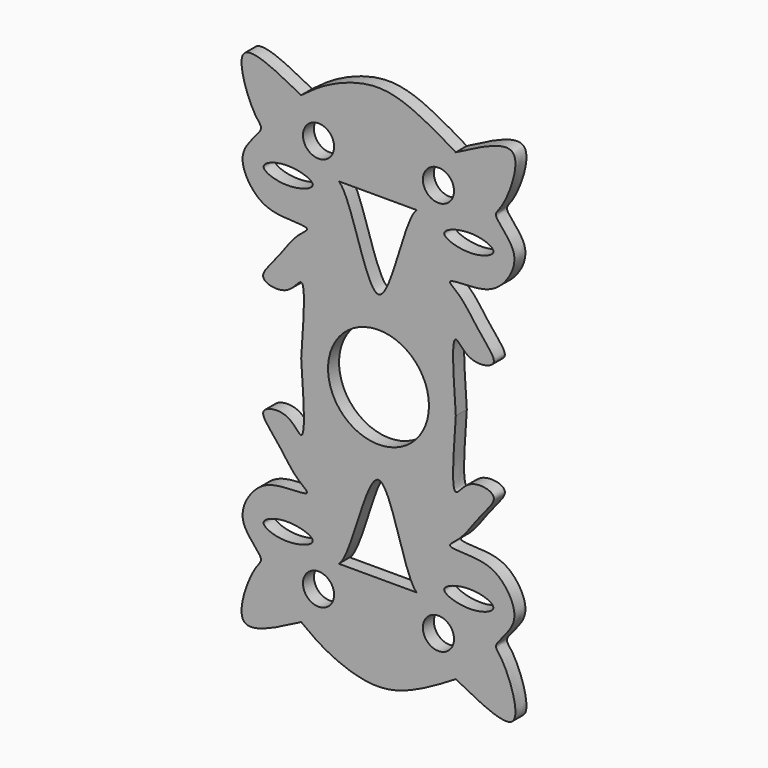
from build123d import *

# Parameters (mm, degrees)
F0_R     = 3.3926522505
F0_R_2   = 11
F1_DEPTH = 3


with BuildPart() as f1:
    # F0 (on Front) → F1 (new body)
    with BuildSketch(Plane.XZ):
        with BuildLine():
            add(Edge.make_bspline(
                [(-16.8524999171, 50.5575016141), (-15.1867091192, 51.8253796024), (-11.345895505, 54.748725706), (0.1035780727, 59.0676453041), (10.2673839566, 54.533972388), (14.7854125395, 51.8057275517), (16.8524999171, 50.5575016141)],
                knots=[0, 0, 0, 0, 0.216600513, 0.4994157731, 0.7709728219, 1, 1, 1, 1], degree=3))
            add(Edge.make_bspline(
                [(-16.8524999171, 50.5575016141), (-22.4308320184, 53.5003882597), (-33.1441223461, 59.145024226), (-27.4681013247, 43.1258537774), (-24.3363312578, 41.2397389064), (-31.6080514315, 35.6285661402), (-27.220292839, 27.6851827124), (-22.0897985261, 25.6007115313), (-13.8056761289, 25.9383244041), (-18.3656408271, 23.2933933771), (-21.909367547, 17.4281624231), (-27.1901107106, 12.1867662083), (-19.4546824507, 10.839003382), (-15.5462156132, 18.2566126558), (-16.3360457105, 7.2180331169), (-16.8524999171, 0)],
                knots=[0, 0, 0, 0, 0.1077965595, 0.206380958, 0.2562683347, 0.3338536878, 0.4145611067, 0.4885942549, 0.559582555, 0.6081730529, 0.6925928376, 0.7595753889, 0.8265579372, 0.8862517384, 1, 1, 1, 1], degree=3))
            add(Edge.make_bspline(
                [(-16.8524999171, -50.5575016141), (-22.4308320184, -53.5003882597), (-33.1441223461, -59.145024226), (-27.4681013247, -43.1258537774), (-24.3363312578, -41.2397389064), (-31.6080514315, -35.6285661402), (-27.220292839, -27.6851827124), (-22.0897985261, -25.6007115313), (-13.8056761289, -25.9383244041), (-18.3656408271, -23.2933933771), (-21.909367547, -17.4281624231), (-27.1901107106, -12.1867662083), (-19.4546824507, -10.839003382), (-15.5462156132, -18.2566126558), (-16.3360457105, -7.2180331169), (-16.8524999171, 0)],
                knots=[0, 0, 0, 0, 0.1077965595, 0.206380958, 0.2562683347, 0.3338536878, 0.4145611067, 0.4885942549, 0.559582555, 0.6081730529, 0.6925928376, 0.7595753889, 0.8265579372, 0.8862517384, 1, 1, 1, 1], degree=3))
            add(Edge.make_bspline(
                [(-16.8524999171, -50.5575016141), (-15.1867091192, -51.8253796024), (-11.345895505, -54.748725706), (0.1035780727, -59.0676453041), (10.2673839566, -54.533972388), (14.7854125395, -51.8057275517), (16.8524999171, -50.5575016141)],
                knots=[0, 0, 0, 0, 0.216600513, 0.4994157731, 0.7709728219, 1, 1, 1, 1], degree=3))
            add(Edge.make_bspline(
                [(16.8524999171, -50.5575016141), (22.4308320184, -53.5003882597), (33.1441223461, -59.145024226), (27.4681013247, -43.1258537774), (24.3363312578, -41.2397389064), (31.6080514315, -35.6285661402), (27.220292839, -27.6851827124), (22.0897985261, -25.6007115313), (13.8056761289, -25.9383244041), (18.3656408271, -23.2933933771), (21.909367547, -17.4281624231), (27.1901107106, -12.1867662083), (19.4546824507, -10.839003382), (15.5462156132, -18.2566126558), (16.3360457105, -7.2180331169), (16.8524999171, 0)],
                knots=[0, 0, 0, 0, 0.1077965595, 0.206380958, 0.2562683347, 0.3338536878, 0.4145611067, 0.4885942549, 0.559582555, 0.6081730529, 0.6925928376, 0.7595753889, 0.8265579372, 0.8862517384, 1, 1, 1, 1], degree=3))
            add(Edge.make_bspline(
                [(16.8524999171, 50.5575016141), (22.4308320184, 53.5003882597), (33.1441223461, 59.145024226), (27.4681013247, 43.1258537774), (24.3363312578, 41.2397389064), (31.6080514315, 35.6285661402), (27.220292839, 27.6851827124), (22.0897985261, 25.6007115313), (13.8056761289, 25.9383244041), (18.3656408271, 23.2933933771), (21.909367547, 17.4281624231), (27.1901107106, 12.1867662083), (19.4546824507, 10.839003382), (15.5462156132, 18.2566126558), (16.3360457105, 7.2180331169), (16.8524999171, 0)],
                knots=[0, 0, 0, 0, 0.1077965595, 0.206380958, 0.2562683347, 0.3338536878, 0.4145611067, 0.4885942549, 0.559582555, 0.6081730529, 0.6925928376, 0.7595753889, 0.8265579372, 0.8862517384, 1, 1, 1, 1], degree=3))
        make_face()
        with BuildLine():
            add(Edge.make_bspline(
                [(-25.0425003469, -34.1775007546), (-25.0425003469, -35.1064384768), (-20.0375349878, -37.014226774), (-11.4053548492, -34.1775007546), (-20.0375349878, -31.3407747352), (-25.0425003469, -33.2485630324), (-25.0425003469, -34.1775007546)],
                knots=[0, 0, 0, 0, 0.2434593303, 0.5, 0.7565406697, 1, 1, 1, 1], degree=3))
        make_face(mode=Mode.SUBTRACT)
        with Locations((-13.0725000054, -42.9974980652)):
            Circle(F0_R, mode=Mode.SUBTRACT)
        with BuildLine():
            Line((8.3474991843, -36.697499454), (-8.6625004187, -36.697499454))
            add(Edge.make_bspline(
                [(-8.6625004187, -36.697499454), (-5.7754009514, -34.494316675), (0.087678575, -1.1025335563), (5.5646821285, -34.4904654567), (8.3474991843, -36.697499454)],
                knots=[0, 0, 0, 0, 0.5007795933, 1, 1, 1, 1], degree=3))
        make_face(mode=Mode.SUBTRACT)
        with Locations((13.0725000054, -42.9974980652)):
            Circle(F0_R, mode=Mode.SUBTRACT)
        with BuildLine():
            add(Edge.make_bspline(
                [(25.0425003469, -34.1775007546), (25.0425003469, -35.1064384768), (20.0375349878, -37.014226774), (11.4053548492, -34.1775007546), (20.0375349878, -31.3407747352), (25.0425003469, -33.2485630324), (25.0425003469, -34.1775007546)],
                knots=[0, 0, 0, 0, 0.2434593303, 0.5, 0.7565406697, 1, 1, 1, 1], degree=3))
        make_face(mode=Mode.SUBTRACT)
        with BuildLine():
            add(Edge.make_bspline(
                [(-8.6625004187, 36.697499454), (-5.7754009514, 34.494316675), (0.087678575, 1.1025335563), (5.5646821285, 34.4904654567), (8.3474991843, 36.697499454)],
                knots=[0, 0, 0, 0, 0.5007795933, 1, 1, 1, 1], degree=3))
            Line((-8.6625004187, 36.697499454), (8.3474991843, 36.697499454))
        make_face(mode=Mode.SUBTRACT)
        with BuildLine():
            add(Edge.make_bspline(
                [(-25.0425003469, 34.1775007546), (-25.0425003469, 35.1064384768), (-20.0375349878, 37.014226774), (-11.4053548492, 34.1775007546), (-20.0375349878, 31.3407747352), (-25.0425003469, 33.2485630324), (-25.0425003469, 34.1775007546)],
                knots=[0, 0, 0, 0, 0.2434593303, 0.5, 0.7565406697, 1, 1, 1, 1], degree=3))
        make_face(mode=Mode.SUBTRACT)
        with Locations((-13.0725000054, 42.9974980652)):
            Circle(F0_R, mode=Mode.SUBTRACT)
        Circle(F0_R_2, mode=Mode.SUBTRACT)
        with Locations((13.0725000054, 42.9974980652)):
            Circle(F0_R, mode=Mode.SUBTRACT)
        with BuildLine():
            add(Edge.make_bspline(
                [(25.0425003469, 34.1775007546), (25.0425003469, 35.1064384768), (20.0375349878, 37.014226774), (11.4053548492, 34.1775007546), (20.0375349878, 31.3407747352), (25.0425003469, 33.2485630324), (25.0425003469, 34.1775007546)],
                knots=[0, 0, 0, 0, 0.2434593303, 0.5, 0.7565406697, 1, 1, 1, 1], degree=3))
        make_face(mode=Mode.SUBTRACT)
    extrude(amount=F1_DEPTH)


solid = f1.part
